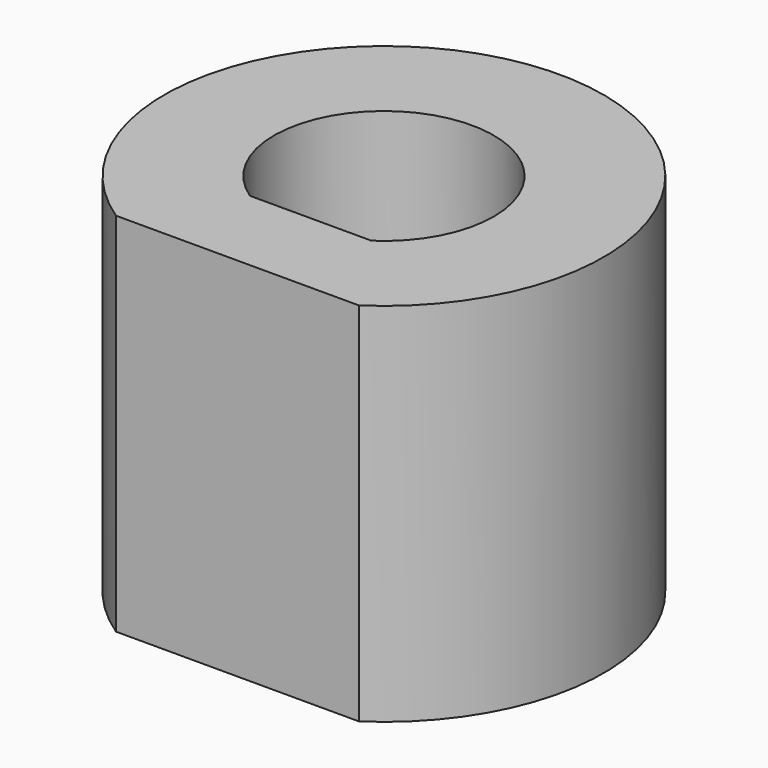
from build123d import *

# Parameters (mm, degrees)
F1_DEPTH = 10


with BuildPart() as f1:
    # F0 (on Top) → F1 (new body)
    with BuildSketch(Plane.XY):
        with BuildLine():
            ThreePointArc((3.316625, -5), (0, 6), (-3.316625, -5))
            Line((-3.316625, -5), (3.316625, -5))
        make_face()
        with BuildLine():
            Line((1.658312, -2.5), (0, -2.5))
            Line((0, -2.5), (-1.658312, -2.5))
            ThreePointArc((-1.658312, -2.5), (0, 3), (1.658312, -2.5))
        make_face(mode=Mode.SUBTRACT)
    extrude(amount=F1_DEPTH)


solid = f1.part
